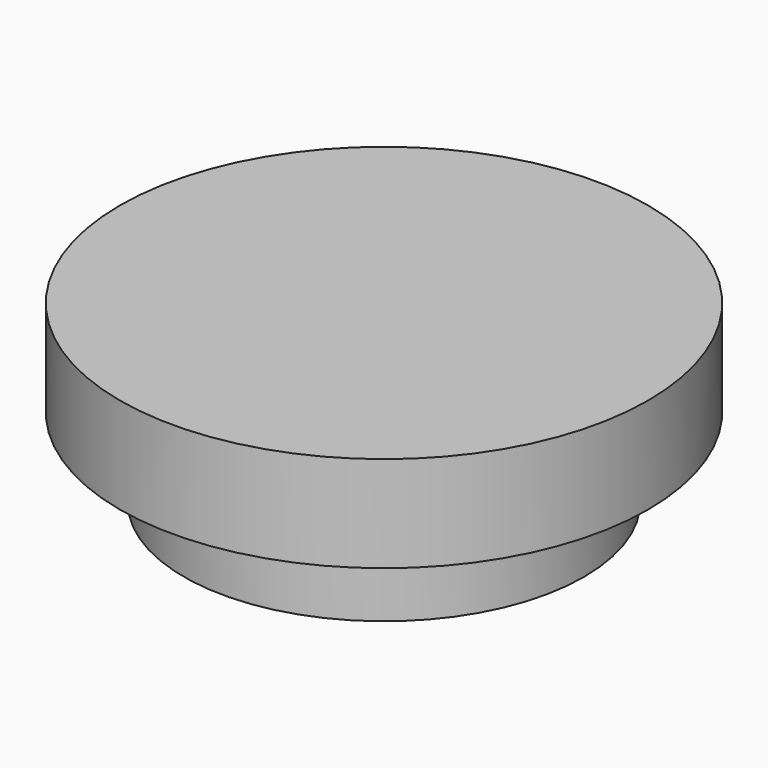
from build123d import *

# Parameters (mm, degrees)
F0_R     = 12.5
F1_DEPTH = 5
F2_R     = 9.5
F2_R_2   = 7
F3_DEPTH = 4
F4_R     = 16.5
F4_R_2   = 12.5
F4_R_3   = 9.5
F4_R_4   = 7
F5_DEPTH = 6
F6_DEPTH = 5
F7_R     = 9.5
F8_DEPTH = 1


with BuildPart() as f1:
    # F0 (on Top) → F1 (new body)
    with BuildSketch(Plane.XY):
        Circle(F0_R)
    extrude(amount=F1_DEPTH)

    # F2 (on face) → F3 (cut)
    with BuildSketch(Plane.XY.offset(5)):
        Circle(F2_R)
        Circle(F2_R_2, mode=Mode.SUBTRACT)
    extrude(amount=-F3_DEPTH, mode=Mode.SUBTRACT)


with BuildPart() as f5:
    # F4 (on face) → F5 (new body)
    with BuildSketch(Plane.XY.offset(5)):
        Circle(F4_R)
        Circle(F4_R_2, mode=Mode.SUBTRACT)
        Circle(F4_R_2)
        Circle(F4_R_3, mode=Mode.SUBTRACT)
        Circle(F4_R_3)
        Circle(F4_R_4, mode=Mode.SUBTRACT)
        Circle(F4_R_4)
    extrude(amount=F5_DEPTH)

    # F4 (on face) → F6 (cut)
    with BuildSketch(Plane.XY.offset(5)):
        Circle(F4_R_2)
        Circle(F4_R_3, mode=Mode.SUBTRACT)
        Circle(F4_R_4)
    extrude(amount=F6_DEPTH, mode=Mode.SUBTRACT)

    # F7 (on face) → F8 (cut)
    with BuildSketch(Plane.XY.offset(5)):
        Circle(F7_R)
    extrude(amount=F8_DEPTH, mode=Mode.SUBTRACT)


solid = Compound([f1.part, f5.part])
